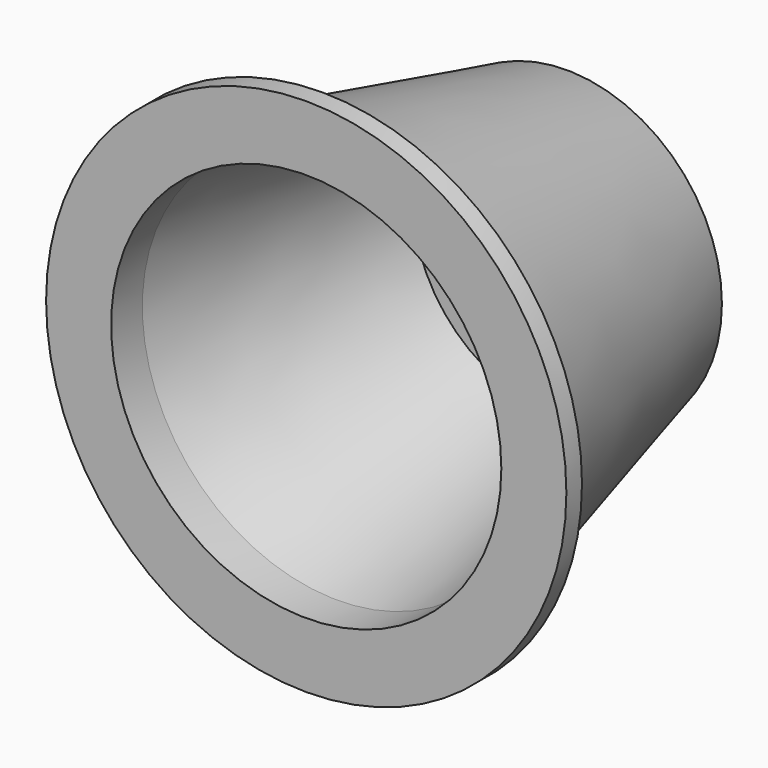
from build123d import *

# Parameters (mm, degrees)
F0_R     = 40
F0_R_2   = 30
F1_DEPTH = 3
F2_R     = 35
F2_R_2   = 30
F3_DEPTH = 3
F5_R     = 23.875
F6_R     = 35
F9_R     = 22
F10_R    = 30


with BuildPart() as f1:
    # F0 (on Front) → F1 (new body)
    with BuildSketch(Plane.XZ):
        Circle(F0_R)
        Circle(F0_R_2, mode=Mode.SUBTRACT)
    extrude(amount=F1_DEPTH)

    # F2 (on Front) → F3 (join)
    with BuildSketch(Plane.XZ):
        Circle(F2_R)
        Circle(F2_R_2, mode=Mode.SUBTRACT)
    extrude(amount=-F3_DEPTH)

    # F5 (on offset) → F7 section 0
    with BuildSketch(Plane.XZ.offset(-47.05)):
        Circle(F5_R)
    # F6 (on face) → F7 section 1
    with BuildSketch(Plane(origin=(0, 3, 0), x_dir=(-1, 0, 0), z_dir=(0, 1, 0))):
        Circle(F6_R)
    loft()

    # F9 (on offset) → F11 section 0
    with BuildSketch(Plane.XZ.offset(-45)):
        Circle(F9_R)
    # F10 (on face) → F11 section 1
    with BuildSketch(Plane.XZ.offset(-3)):
        Circle(F10_R)
    loft(mode=Mode.SUBTRACT)


solid = f1.part
